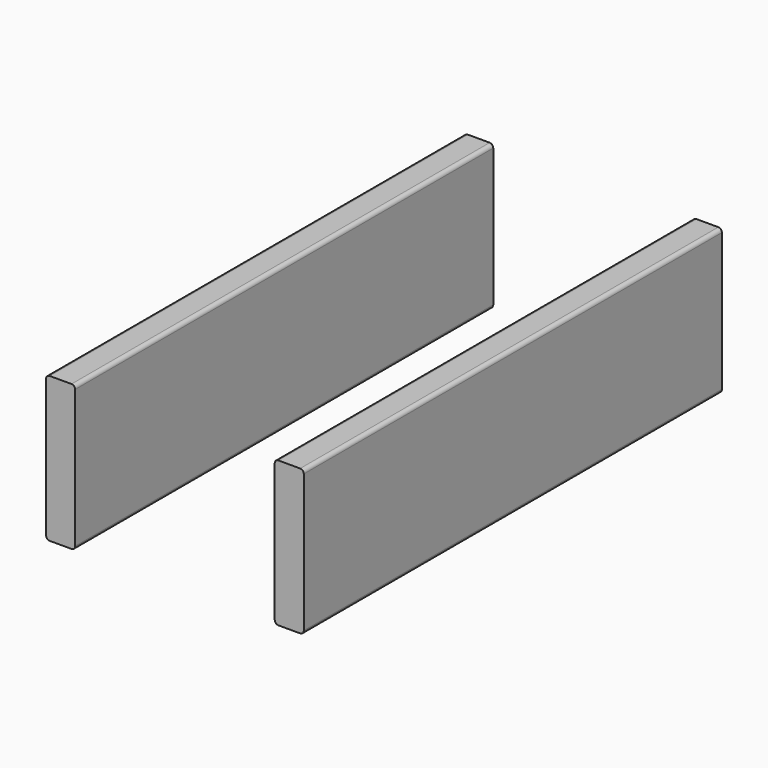
from build123d import *

# Parameters (mm, degrees)
F0_W     = 50.8
F0_H     = 254
F1_DEPTH = 914.4
F2_R     = 6.35


with BuildPart() as f1:
    # F0 (on Front) → F1 (new body)
    with BuildSketch(Plane.XZ):
        with Locations((-200.025, 127)):
            Rectangle(F0_W, F0_H)
        with Locations((200.025, 127)):
            Rectangle(F0_W, F0_H)
    extrude(amount=F1_DEPTH)

    # F2
    f2_edges = [f1.edges().sort_by_distance(p)[0] for p in [
        (-174.625, -457.2, 254),
        (-225.425, -457.2, 254),
        (-174.625, -457.2, 0),
        (-225.425, -457.2, 0),
        (174.625, -457.2, 254),
        (225.425, -457.2, 254),
        (225.425, -457.2, 0),
        (174.625, -457.2, 0),
    ]]
    fillet(f2_edges, radius=F2_R)


solid = f1.part
